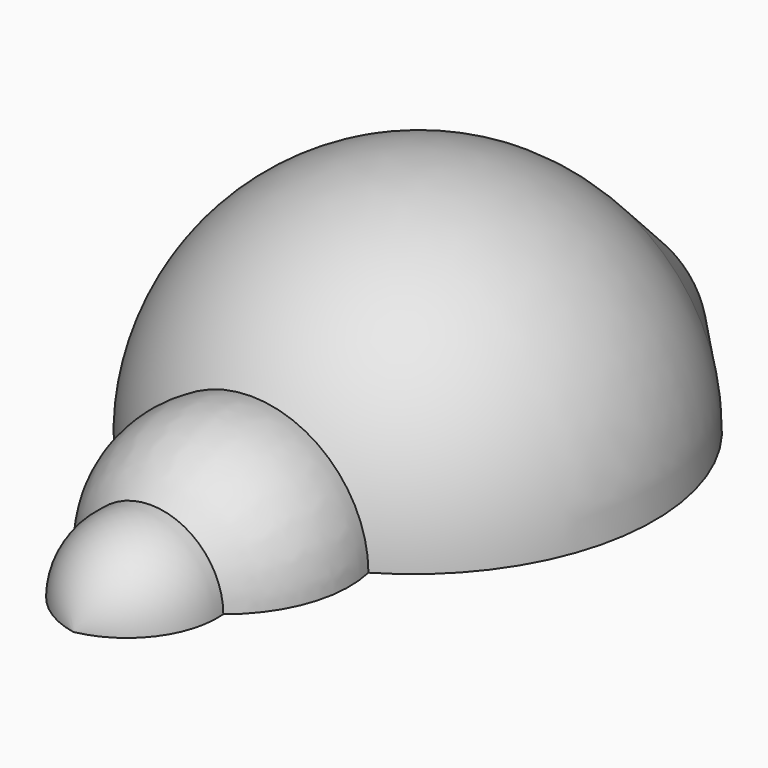
from build123d import *

# Parameters (mm, degrees)
F2_W          = 63.9423057437
F2_H          = 64.4230768085
F2_W_2        = 67.0192316175
F3_DEPTH      = 125.2443603385
F3_DEPTH_BACK = 54.7707683207


with BuildPart() as f1:
    # F0 (on Top) → F1 (revolve)
    with BuildSketch(Plane.XY):
        with BuildLine():
            ThreePointArc((0, -54.7697682207), (13.5023792621, -46.2878365079), (17.9095351564, -30.963529403))
            ThreePointArc((17.9095351564, -30.963529403), (27.8687589252, -17.0661011888), (28.9045384678, 0))
            ThreePointArc((28.9045384679, 0), (57.685625787, 42.7051701481), (42.322059586, 91.8584343148))
            Line((42.322059586, 91.8584343148), (18.2393220802, 117.6613730458))
            ThreePointArc((18.2393220802, 117.6613730458), (9.9391877702, 123.4206856162), (0, 125.2302317793))
            Line((0, 125.2302317793), (0, -54.7697682207))
        make_face()
    revolve(axis=Axis((0, 35.2302317793, 0), (0, -1, 0)))

    # F2 (on Front) → F3 (cut, two sides)
    with BuildSketch(Plane.XZ) as f3_sk:
        with Locations((31.9711528718, -32.2115384042)):
            Rectangle(F2_W, F2_H)
        with Locations((-33.5096158087, -32.2115384042)):
            Rectangle(F2_W_2, F2_H)
    extrude(amount=-F3_DEPTH, mode=Mode.SUBTRACT)
    extrude(f3_sk.sketch, amount=F3_DEPTH_BACK, mode=Mode.SUBTRACT)


solid = f1.part
